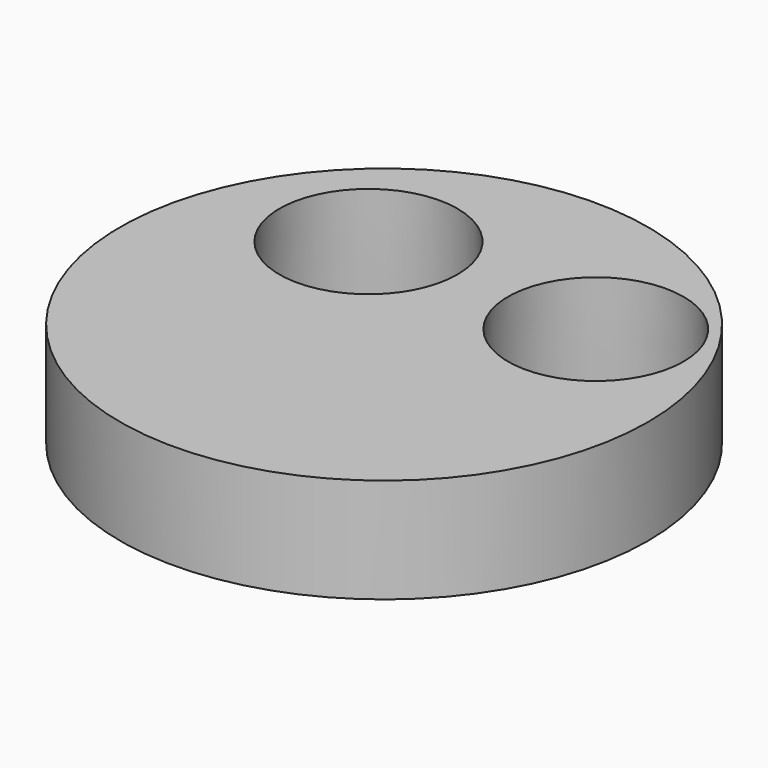
from build123d import *

# Parameters (mm, degrees)
F0_R     = 64.0902787158
F1_DEPTH = 25.4
F2_R     = 21.6333461549
F2_R_2   = 21.315121547
F3_DEPTH = 25.4
F3_TAPER = -3


with BuildPart() as f1:
    # F0 (on Top) → F1 (new body)
    with BuildSketch(Plane.XY):
        with Locations((-4.7487947159, 3.3097660635)):
            Circle(F0_R)
    extrude(amount=F1_DEPTH)

    # F2 (on face) → F3 (cut)
    with BuildSketch(Plane.XY.offset(25.4)):
        with Locations((-28.3488668501, 28.0610620975)):
            Circle(F2_R)
        with Locations((27.7732536197, 26.9098374993)):
            Circle(F2_R_2)
    extrude(amount=-F3_DEPTH, taper=F3_TAPER, mode=Mode.SUBTRACT)


solid = f1.part
